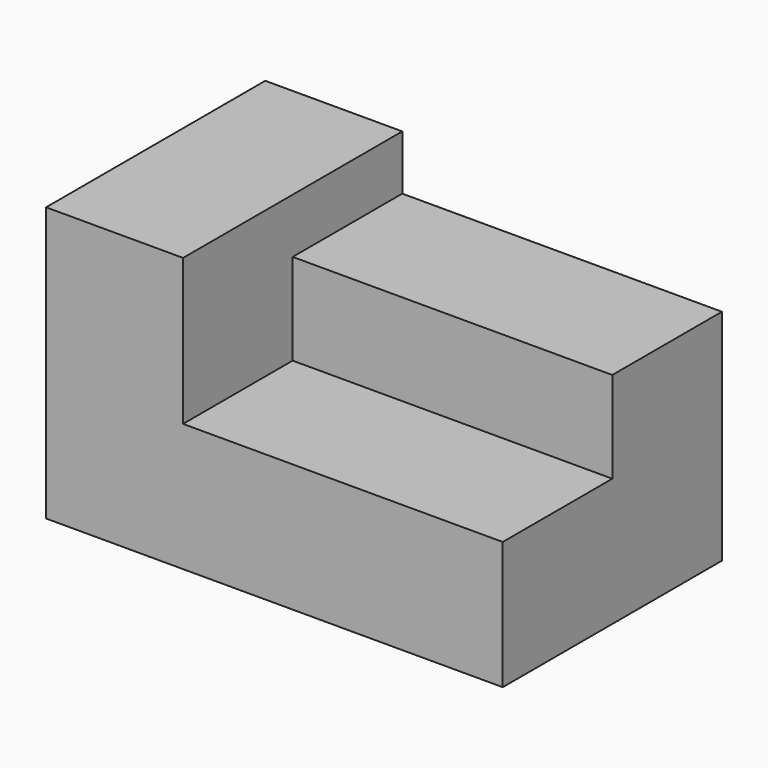
from build123d import *

# Parameters (mm, degrees)
F0_W     = 35
F0_H     = 15
F1_DEPTH = 14
F2_DEPTH = 24
F3_DEPTH = 30


with BuildPart() as f1:
    # F0 (on Top) → F1 (new body)
    with BuildSketch(Plane.XY):
        Polygon((0, 30), (0, 0), (15, 0), (15, 15), (15, 30), align=None)
        with Locations((32.5, 7.5)):
            Rectangle(F0_W, F0_H)
        with Locations((32.5, 22.5)):
            Rectangle(F0_W, F0_H)
    extrude(amount=F1_DEPTH)

    # F0 (on Top) → F2 (join)
    with BuildSketch(Plane.XY):
        with Locations((32.5, 22.5)):
            Rectangle(F0_W, F0_H)
    extrude(amount=F2_DEPTH)

    # F0 (on Top) → F3 (join)
    with BuildSketch(Plane.XY):
        Polygon((0, 30), (0, 0), (15, 0), (15, 15), (15, 30), align=None)
    extrude(amount=F3_DEPTH)


solid = f1.part
